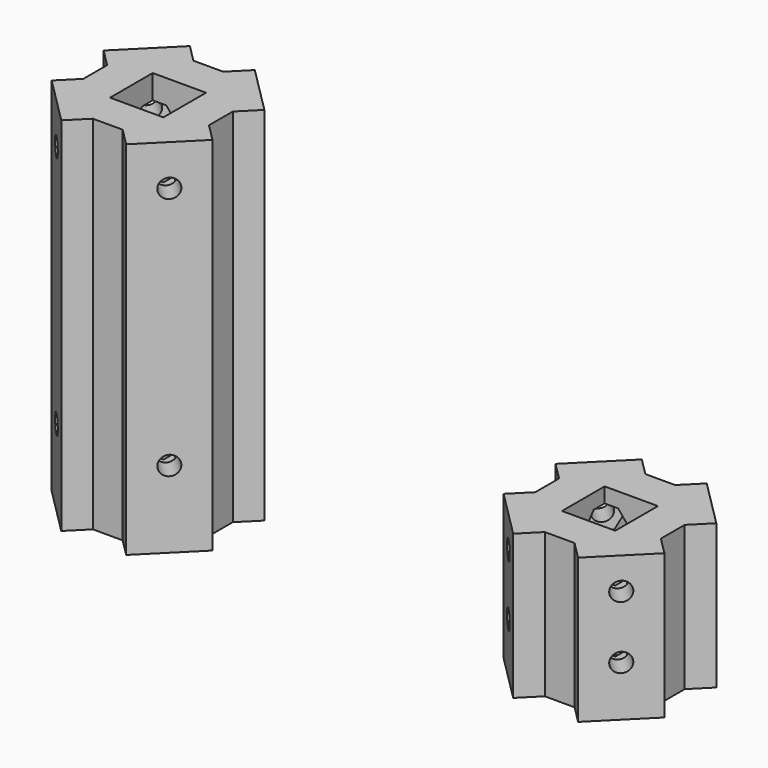
from build123d import *

# Parameters (mm, degrees)
PAD014_DEPTH = 12.5
SKETCH013_R  = 2.1
PAD013_DEPTH = 20
PAD012_DEPTH = 12.5
SKETCH008_R  = 2.1
PAD008_DEPTH = 20
SKETCH001_W  = 11.8
SKETCH001_H  = 11.8
PAD001_DEPTH = 80
PAD019_DEPTH = 12.5
SKETCH018_R  = 2.1
PAD018_DEPTH = 20
PAD017_DEPTH = 12.5
SKETCH016_R  = 2.1
PAD016_DEPTH = 20
SKETCH015_W  = 11.8
SKETCH015_H  = 11.8
PAD015_DEPTH = 32


with BuildPart() as pad014:
    # Sketch014 → Pad014 (new body, symmetric)
    with BuildSketch(Plane(origin=(100, 0, 0), x_dir=(0.707107, 0.707107, 0), z_dir=(0.707107, -0.707107, 0))):
        Polygon((2.125, 67.319392), (4.25, 71), (2.125, 74.680608), (-2.125, 74.680608), (-4.25, 71), (-2.125, 67.319392), align=None)
        Polygon((2.125, 13.319392), (4.25, 17), (2.125, 20.680608), (-2.125, 20.680608), (-4.25, 17), (-2.125, 13.319392), align=None)
    extrude(amount=PAD014_DEPTH, both=True)


with BuildPart() as pad013:
    # Sketch013 → Pad013 (new body, symmetric)
    with BuildSketch(Plane(origin=(100, 0, 0), x_dir=(0.707107, 0.707107, 0), z_dir=(0.707107, -0.707107, 0))):
        with Locations((0, 71)):
            Circle(SKETCH013_R)
        with Locations((0, 17)):
            Circle(SKETCH013_R)
    extrude(amount=PAD013_DEPTH, both=True)


with BuildPart() as pad012:
    # Sketch012 → Pad012 (new body, symmetric)
    with BuildSketch(Plane(origin=(100, 0, 0), x_dir=(0.707107, -0.707107, 0), z_dir=(-0.707107, -0.707107, 0))):
        Polygon((2.125, 67.319392), (4.25, 71), (2.125, 74.680608), (-2.125, 74.680608), (-4.25, 71), (-2.125, 67.319392), align=None)
        Polygon((2.125, 13.319392), (4.25, 17), (2.125, 20.680608), (-2.125, 20.680608), (-4.25, 17), (-2.125, 13.319392), align=None)
    extrude(amount=PAD012_DEPTH, both=True)


with BuildPart() as fusion001:
    # Sketch008 → Pad008 (new body, symmetric)
    with BuildSketch(Plane(origin=(100, 0, 0), x_dir=(0.707107, -0.707107, 0), z_dir=(-0.707107, -0.707107, 0))):
        with Locations((0, 71)):
            Circle(SKETCH008_R)
        with Locations((0, 17)):
            Circle(SKETCH008_R)
    extrude(amount=PAD008_DEPTH, both=True)

    # Fusion001: union Pad014, Pad013, Pad012
    add(pad014.part)
    add(pad013.part)
    add(pad012.part)


with BuildPart() as obj1:
    # Sketch001 → Pad001 (new body)
    with BuildSketch(Plane(origin=(100, 0, 0), x_dir=(1, 0, 0), z_dir=(0, 0, 1))):
        Polygon((-13.9, 3.293398), (-13.9, -3.293398), (-17.789087, -7.182486), (-7.182486, -17.789087), (-3.293398, -13.9), (3.293398, -13.9), (7.182486, -17.789087), (17.789087, -7.182486), (13.9, -3.293398), (13.9, 3.293398), (17.789087, 7.182486), (7.182486, 17.789087), (3.293398, 13.9), (-3.293398, 13.9), (-7.182486, 17.789087), (-17.789087, 7.182486), align=None)
        Rectangle(SKETCH001_W, SKETCH001_H, mode=Mode.SUBTRACT)
    extrude(amount=PAD001_DEPTH)

    # Cut002: cut Fusion001
    add(fusion001.part, mode=Mode.SUBTRACT)


with BuildPart() as pad019:
    # Sketch019 → Pad019 (new body, symmetric)
    with BuildSketch(Plane(origin=(100, 0, 0), x_dir=(0.707107, 0.707107, 0), z_dir=(0.707107, -0.707107, 0))):
        Polygon((2.125, 7.469392), (4.25, 11.15), (2.125, 14.830608), (-2.125, 14.830608), (-4.25, 11.15), (-2.125, 7.469392), align=None)
        Polygon((2.125, 21.319392), (4.25, 25), (2.125, 28.680608), (-2.125, 28.680608), (-4.25, 25), (-2.125, 21.319392), align=None)
    extrude(amount=PAD019_DEPTH, both=True)


with BuildPart() as pad018:
    # Sketch018 → Pad018 (new body, symmetric)
    with BuildSketch(Plane(origin=(100, 0, 0), x_dir=(0.707107, 0.707107, 0), z_dir=(0.707107, -0.707107, 0))):
        with Locations((0, 25)):
            Circle(SKETCH018_R)
        with Locations((0, 11.15)):
            Circle(SKETCH018_R)
    extrude(amount=PAD018_DEPTH, both=True)


with BuildPart() as pad017:
    # Sketch017 → Pad017 (new body, symmetric)
    with BuildSketch(Plane(origin=(100, 0, 0), x_dir=(0.707107, -0.707107, 0), z_dir=(-0.707107, -0.707107, 0))):
        Polygon((2.125, 7.469392), (4.25, 11.15), (2.125, 14.830608), (-2.125, 14.830608), (-4.25, 11.15), (-2.125, 7.469392), align=None)
        Polygon((2.125, 21.319392), (4.25, 25), (2.125, 28.680608), (-2.125, 28.680608), (-4.25, 25), (-2.125, 21.319392), align=None)
    extrude(amount=PAD017_DEPTH, both=True)


with BuildPart() as fusion002:
    # Sketch016 → Pad016 (new body, symmetric)
    with BuildSketch(Plane(origin=(100, 0, 0), x_dir=(0.707107, -0.707107, 0), z_dir=(-0.707107, -0.707107, 0))):
        with Locations((0, 25)):
            Circle(SKETCH016_R)
        with Locations((0, 11.5)):
            Circle(SKETCH016_R)
    extrude(amount=PAD016_DEPTH, both=True)

    # Fusion002: union Pad019, Pad018, Pad017
    add(pad019.part)
    add(pad018.part)
    add(pad017.part)


with BuildPart() as obj2:
    # Sketch015 → Pad015 (new body)
    with BuildSketch(Plane(origin=(100, 0, 0), x_dir=(1, 0, 0), z_dir=(0, 0, 1))):
        Polygon((-13.9, 3.293398), (-13.9, -3.293398), (-17.789087, -7.182486), (-7.182486, -17.789087), (-3.293398, -13.9), (3.293398, -13.9), (7.182486, -17.789087), (17.789087, -7.182486), (13.9, -3.293398), (13.9, 3.293398), (17.789087, 7.182486), (7.182486, 17.789087), (3.293398, 13.9), (-3.293398, 13.9), (-7.182486, 17.789087), (-17.789087, 7.182486), align=None)
        Rectangle(SKETCH015_W, SKETCH015_H, mode=Mode.SUBTRACT)
    extrude(amount=PAD015_DEPTH)

    # Cut003: cut Fusion002
    add(fusion002.part, mode=Mode.SUBTRACT)


with BuildPart() as obj2_1:
    # Cut003 placement: moved
    add(obj2.part.moved(Location((100, 0, 0))))


solid = Compound([obj1.part, obj2_1.part])
